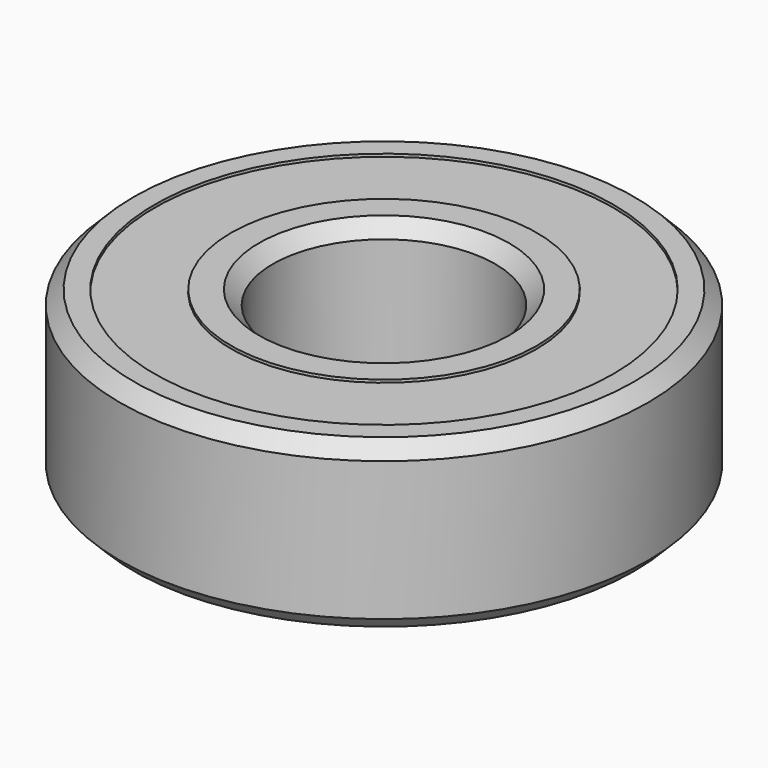
from build123d import *

# Parameters (mm, degrees)
F0_R     = 9.5
F0_R_2   = 4
F1_DEPTH = 3
F2_SIZE  = 0.5
F3_R     = 8.25
F3_R_2   = 5.5
F4_DEPTH = 0.1
F5_R     = 8.25
F5_R_2   = 5.5
F6_DEPTH = 0.1


with BuildPart() as f1:
    # F0 (on Top) → F1 (new body, symmetric)
    with BuildSketch(Plane.XY):
        Circle(F0_R)
        Circle(F0_R_2, mode=Mode.SUBTRACT)
    extrude(amount=F1_DEPTH, both=True)

    # F2
    f2_edges = [f1.edges().sort_by_distance(p)[0] for p in [
        (-9.5, 0, 3),
        (-4, 0, 3),
        (-9.5, 0, -3),
        (-4, 0, -3),
    ]]
    chamfer(f2_edges, length=F2_SIZE)

    # F3 (on face) → F4 (cut)
    with BuildSketch(Plane(origin=(0, 0, -3), x_dir=(1, 0, 0), z_dir=(0, 0, -1))):
        Circle(F3_R)
        Circle(F3_R_2, mode=Mode.SUBTRACT)
    extrude(amount=-F4_DEPTH, mode=Mode.SUBTRACT)

    # F5 (on face) → F6 (cut)
    with BuildSketch(Plane.XY.offset(3)):
        Circle(F5_R)
        Circle(F5_R_2, mode=Mode.SUBTRACT)
    extrude(amount=-F6_DEPTH, mode=Mode.SUBTRACT)


solid = f1.part
